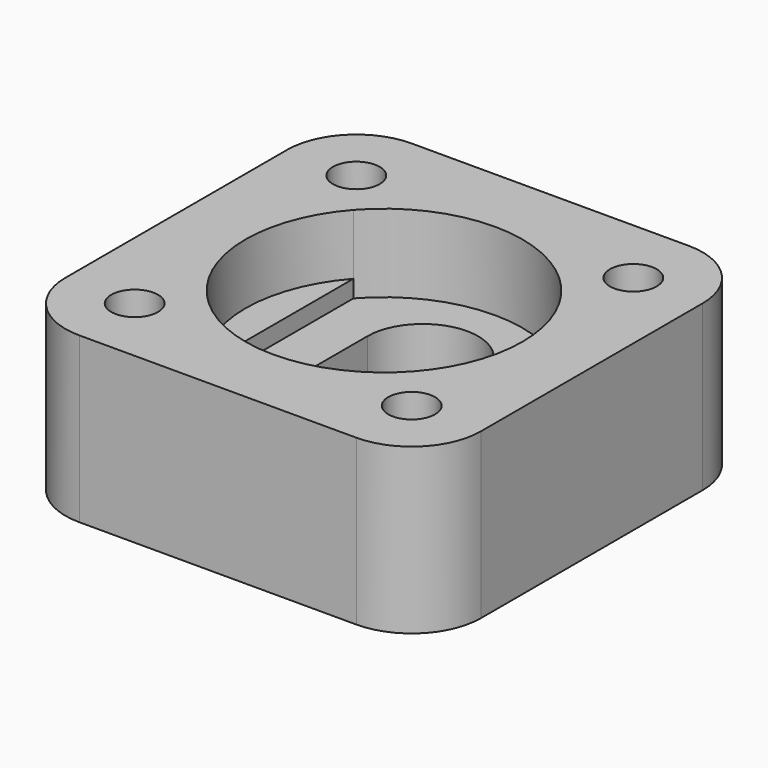
from build123d import *

# Parameters (mm, degrees)
F0_W      = 24
F0_H      = 24
F1_DEPTH  = 9.5
F4_R      = 4
F7_DEPTH  = 9.501
F8_DEPTH  = 4.5
F9_DEPTH  = 3.5
F5_R      = 1.35
F10_DEPTH = 9.501


with BuildPart() as f1:
    # F0 (on Top) → F1 (new body)
    with BuildSketch(Plane.XY):
        with Locations((12, 12)):
            Rectangle(F0_W, F0_H)
    extrude(amount=F1_DEPTH)

    # F4
    f4_edges = [f1.edges().sort_by_distance(p)[0] for p in [
        (0, 0, 4.75),
        (24, 0, 4.75),
        (24, 24, 4.75),
        (0, 24, 4.75),
    ]]
    fillet(f4_edges, radius=F4_R)

    # F6 (on face) → F7 (cut, through all)
    with BuildSketch(Plane.XY.offset(9.5)):
        with BuildLine():
            ThreePointArc((15.2, 14.8), (12, 18), (8.8, 14.8))
            Line((8.8, 14.8), (8.8, 9.2))
            ThreePointArc((8.8, 9.2), (12, 6), (15.2, 9.2))
            Line((15.2, 9.2), (15.2, 14.8))
        make_face()
    extrude(amount=-F7_DEPTH, mode=Mode.SUBTRACT)

    # F6 (on face) → F8 (cut, through all)
    with BuildSketch(Plane.XY.offset(9.5)):
        with BuildLine():
            Line((18, 12), (18, 17.291503))
            ThreePointArc((18, 17.291503), (12, 20), (6, 17.291503))
            Line((6, 17.291503), (6, 12))
            Line((6, 12), (6, 6.708497))
            ThreePointArc((6, 6.708497), (12, 4), (18, 6.708497))
            Line((18, 6.708497), (18, 12))
        make_face()
        with BuildLine():
            Line((8.8, 9.2), (8.8, 14.8))
            ThreePointArc((8.8, 14.8), (12, 18), (15.2, 14.8))
            Line((15.2, 14.8), (15.2, 9.2))
            ThreePointArc((15.2, 9.2), (12, 6), (8.8, 9.2))
        make_face(mode=Mode.SUBTRACT)
    extrude(amount=-F8_DEPTH, mode=Mode.SUBTRACT)

    # F6 (on face) → F9 (cut, through all)
    with BuildSketch(Plane.XY.offset(9.5)):
        with BuildLine():
            Line((6, 12), (6, 17.291503))
            ThreePointArc((6, 17.291503), (4, 12), (6, 6.708497))
            Line((6, 6.708497), (6, 12))
        make_face()
        with BuildLine():
            ThreePointArc((18, 6.708497), (19.483315, 9.171573), (20, 12))
            ThreePointArc((20, 12), (19.483315, 14.828427), (18, 17.291503))
            Line((18, 17.291503), (18, 12))
            Line((18, 12), (18, 6.708497))
        make_face()
    extrude(amount=-F9_DEPTH, mode=Mode.SUBTRACT)

    # F5 (on face) → F10 (cut, through all)
    with BuildSketch(Plane.XY.offset(9.5)):
        with Locations((4, 4)):
            Circle(F5_R)
        with Locations((4, 20)):
            Circle(F5_R)
        with Locations((20, 4)):
            Circle(F5_R)
        with Locations((20, 20)):
            Circle(F5_R)
    extrude(amount=-F10_DEPTH, mode=Mode.SUBTRACT)


solid = f1.part
